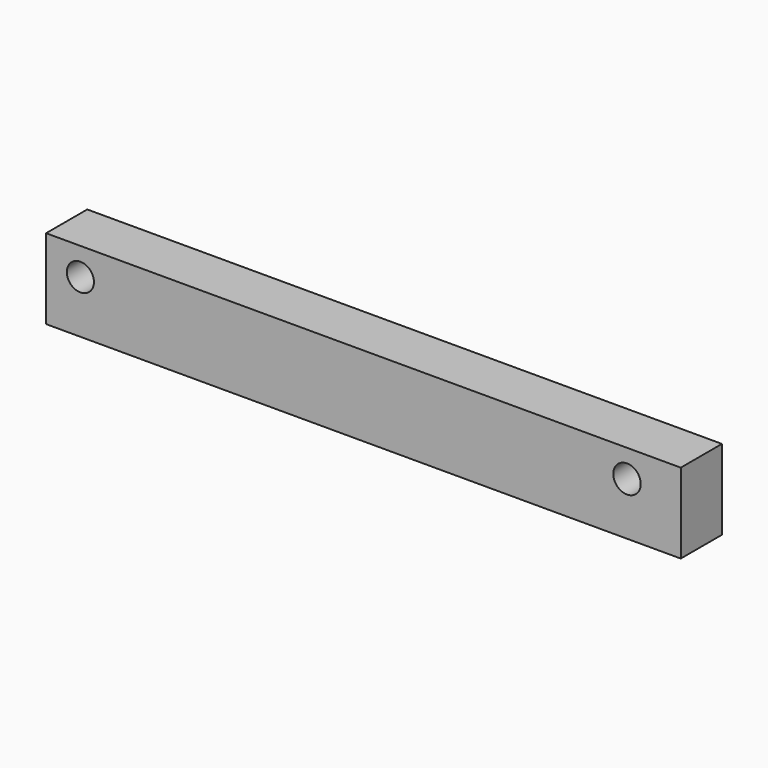
from build123d import *

# Parameters (mm, degrees)
F0_W     = 555
F0_H     = 70
F1_DEPTH = 45
F2_R     = 11.85
F3_DEPTH = 45.001
F4_R     = 12
F5_DEPTH = 45.001


with BuildPart() as f1:
    # F0 (on Front) → F1 (new body)
    with BuildSketch(Plane.XZ):
        with Locations((-277.5, -35)):
            Rectangle(F0_W, F0_H)
    extrude(amount=F1_DEPTH)

    # F2 (on face) → F3 (cut, through all)
    with BuildSketch(Plane(origin=(0, 0, 0), x_dir=(-1, 0, 0), z_dir=(0, 1, 0))):
        with Locations((525, -24)):
            Circle(F2_R)
    extrude(amount=-F3_DEPTH, mode=Mode.SUBTRACT)

    # F4 (on face) → F5 (cut, through all)
    with BuildSketch(Plane(origin=(0, 0, 0), x_dir=(-1, 0, 0), z_dir=(0, 1, 0))):
        with Locations((47, -24)):
            Circle(F4_R)
    extrude(amount=-F5_DEPTH, mode=Mode.SUBTRACT)


solid = f1.part
